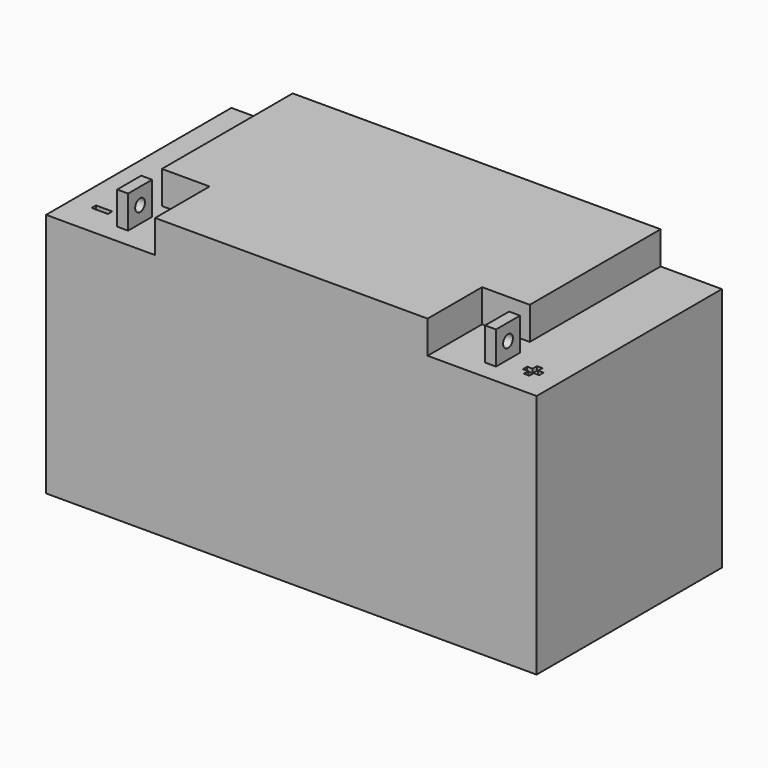
from build123d import *

# Parameters (mm, degrees)
F0_W      = 360
F0_H      = 170
F1_DEPTH  = 180
F2_W      = 8
F2_H      = 22
F3_DEPTH  = 24
F4_R      = 4.5
F5_DEPTH  = 25
F6_R      = 4.5
F7_DEPTH  = 25
F8_W      = 12
F8_H      = 4
F9_W      = 4
F9_H      = 4
F10_DEPTH = 3


with BuildPart() as f1:
    # F0 (on Top) → F1 (new body)
    with BuildSketch(Plane.XY):
        Rectangle(F0_W, F0_H)
    extrude(amount=F1_DEPTH)

    # F2 (on face) → F3 (join)
    with BuildSketch(Plane.XY.offset(180)):
        Polygon((-100, -85), (0, -85), (100, -85), (100, -35), (135, -35), (135, 85), (0, 85), (-135, 85), (-135, -35), (-100, -35), align=None)
        with Locations((-135, -60)):
            Rectangle(F2_W, F2_H)
        with Locations((135, -60)):
            Rectangle(F2_W, F2_H)
    extrude(amount=F3_DEPTH)

    # F4 (on face) → F5 (cut)
    with BuildSketch(Plane(origin=(-139, 0, 0), x_dir=(0, -1, 0), z_dir=(-1, 0, 0))):
        with Locations((60, 192)):
            Circle(F4_R)
    extrude(amount=-F5_DEPTH, mode=Mode.SUBTRACT)

    # F6 (on face) → F7 (cut)
    with BuildSketch(Plane.YZ.offset(139)):
        with Locations((-60, 192)):
            Circle(F6_R)
    extrude(amount=-F7_DEPTH, mode=Mode.SUBTRACT)

    # F8 (on face) + F9 (on face) → F10 (cut)
    with BuildSketch(Plane.XY.offset(180)):
        with Locations((-159, -60)):
            Rectangle(F8_W, F8_H)
    with BuildSketch(Plane.XY.offset(180)):
        with Locations((155, -61.877079308)):
            Rectangle(F9_W, F9_H)
        with Locations((159, -61.877079308)):
            Rectangle(F9_W, F9_H)
        with Locations((163, -61.877079308)):
            Rectangle(F9_W, F9_H)
        with Locations((159, -57.877079308)):
            Rectangle(F9_W, F9_H)
        with Locations((159, -65.877079308)):
            Rectangle(F9_W, F9_H)
    extrude(amount=-F10_DEPTH, mode=Mode.SUBTRACT)


solid = f1.part
